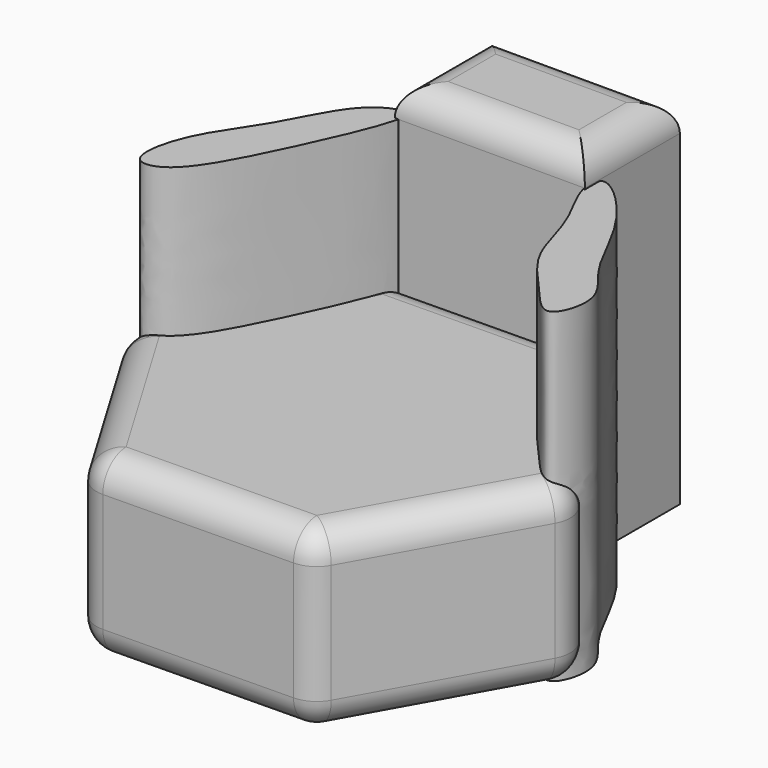
from build123d import *

# Parameters (mm, degrees)
F1_DEPTH  = 30
F2_R      = 5
F4_W      = 32.0251611993
F4_H      = 60
F5_DEPTH  = 20
F6_R      = 5
F8_DEPTH  = 54.8
F10_DEPTH = 55


with BuildPart() as f1:
    # F0 (on Top) → F1 (new body)
    with BuildSketch(Plane.XY):
        Polygon((-19.2251175082, 32.255642264), (-37.5467643702, -0.5216190208), (-18.3216468619, -32.7772612849), (19.2251175082, -32.255642264), (37.5467643702, 0.5216190208), (18.3216468619, 32.7772612849), align=None)
    extrude(amount=F1_DEPTH)

    # F2
    f2_edges = [f1.edges().sort_by_distance(p)[0] for p in [
        (-18.321647, -32.777261, 15),
        (19.225118, -32.255642, 15),
        (0.451735, -32.516452, 0),
        (0.451735, -32.516452, 30),
        (-37.546764, -0.521619, 15),
        (-27.934206, -16.64944, 0),
        (-27.934206, -16.64944, 30),
        (37.546764, 0.521619, 15),
        (28.385941, -15.867012, 0),
        (28.385941, -15.867012, 30),
        (27.934206, 16.64944, 30),
        (-0.451735, 32.516452, 30),
        (-28.385941, 15.867012, 30),
        (18.321647, 32.777261, 15),
        (27.934206, 16.64944, 0),
        (-19.225118, 32.255642, 15),
        (-0.451735, 32.516452, 0),
        (-28.385941, 15.867012, 0),
    ]]
    fillet(f2_edges, radius=F2_R)

    # F4 (on offset) → F5 (join)
    with BuildSketch(Plane.XZ.offset(-30)):
        with Locations((-0.4367069341, 30)):
            Rectangle(F4_W, F4_H)
    extrude(amount=-F5_DEPTH)

    # F6
    f6_edges = [f1.edges().sort_by_distance(p)[0] for p in [
        (15.575874, 40, 60),
        (-0.436707, 30, 60),
        (-16.449288, 40, 60),
        (-0.436707, 50, 60),
    ]]
    fillet(f6_edges, radius=F6_R)

    # F7 (on Top) → F8 (join)
    with BuildSketch(Plane.XY):
        with BuildLine():
            add(Edge.make_bspline(
                [(15.2847347781, 30.132766813), (14.9306235584, 31.662624298), (15.2543661385, 35.7824756604), (25.7640764431, 25.6265698241), (30.2147852372, 13.066257125), (37.1716813383, 7.1680377299), (33.9876585871, -2.5722099131), (28.5760680655, 4.396595263), (21.5711973117, 11.2719534854), (19.8643991305, 21.7849648227), (15.8817602001, 27.5534534232), (15.2847347781, 30.132766813)],
                knots=[0, 0, 0, 0, 0.0685839745, 0.1942515176, 0.3401657951, 0.4509174235, 0.5463829157, 0.6388070893, 0.7612053386, 0.8843685994, 1, 1, 1, 1], degree=3))
        make_face()
    extrude(amount=F8_DEPTH)

    # F9 (on Top) → F10 (join)
    with BuildSketch(Plane.XY):
        with BuildLine():
            add(Edge.make_bspline(
                [(-15.8670116216, 29.8416279256), (-15.561076842, 31.1239088348), (-15.575060007, 33.0934327758), (-22.7663821681, 30.5273936808), (-27.6679913034, 18.4250721372), (-34.9929481286, 9.6715104624), (-36.9396851647, -1.0885760378), (-30.0255071608, -0.6764484718), (-23.2105817962, 11.5660274388), (-16.7504671134, 26.1387533688), (-15.8670116216, 29.8416279256)],
                knots=[0, 0, 0, 0, 0.0637106349, 0.1599188874, 0.3103442411, 0.4575592232, 0.5776755382, 0.6585766998, 0.8160212108, 1, 1, 1, 1], degree=3))
        make_face()
    extrude(amount=F10_DEPTH)


solid = f1.part
